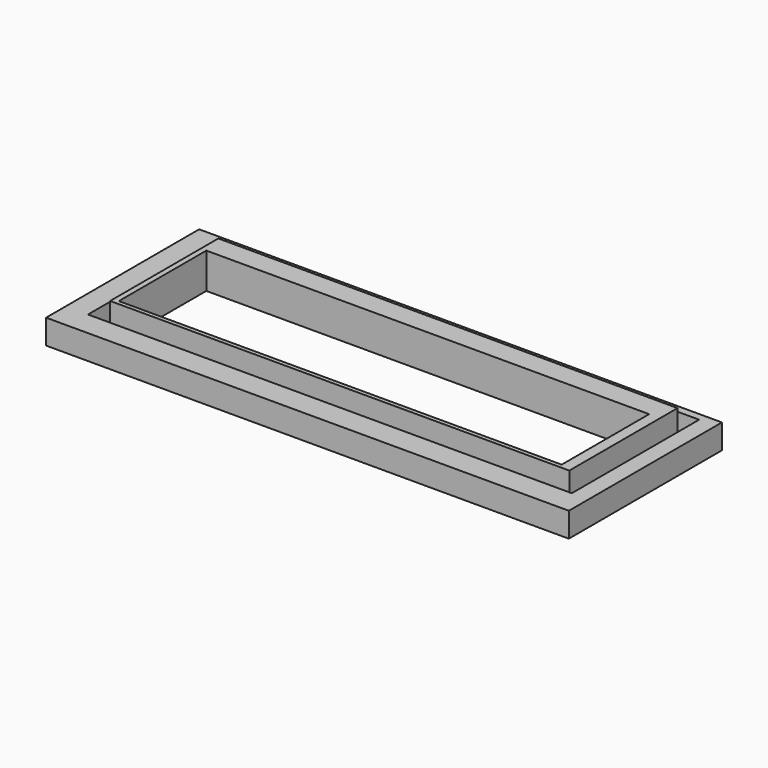
from build123d import *

# Parameters (mm, degrees)
F0_W     = 76.5
F0_H     = 28
F1_DEPTH = 3.6
F2_W     = 64.8
F2_H     = 16
F3_DEPTH = 25
F4_W     = 70.8
F4_H     = 23.3
F4_W_2   = 67.2
F4_H_2   = 19.8
F5_DEPTH = 2.8
F6_W     = 67.2
F6_H     = 19.8
F6_W_2   = 64.8
F6_H_2   = 16
F7_DEPTH = 1.6


with BuildPart() as f1:
    # F0 (on Top) → F1 (new body)
    with BuildSketch(Plane.XY):
        Rectangle(F0_W, F0_H)
    extrude(amount=F1_DEPTH)

    # F2 (on face) → F3 (cut)
    with BuildSketch(Plane.XY.offset(3.6)):
        Rectangle(F2_W, F2_H)
    extrude(amount=-F3_DEPTH, mode=Mode.SUBTRACT)

    # F4 (on face) → F5 (cut)
    with BuildSketch(Plane.XY.offset(3.6)):
        with Locations((0.4, 1.25)):
            Rectangle(F4_W, F4_H)
        with Locations((0.4, 1.3)):
            Rectangle(F4_W_2, F4_H_2, mode=Mode.SUBTRACT)
    extrude(amount=-F5_DEPTH, mode=Mode.SUBTRACT)

    # F6 (on face) → F7 (join)
    with BuildSketch(Plane.XY.offset(3.6)):
        with Locations((0.4, 1.3)):
            Rectangle(F6_W, F6_H)
        Rectangle(F6_W_2, F6_H_2, mode=Mode.SUBTRACT)
    extrude(amount=F7_DEPTH)


solid = f1.part
